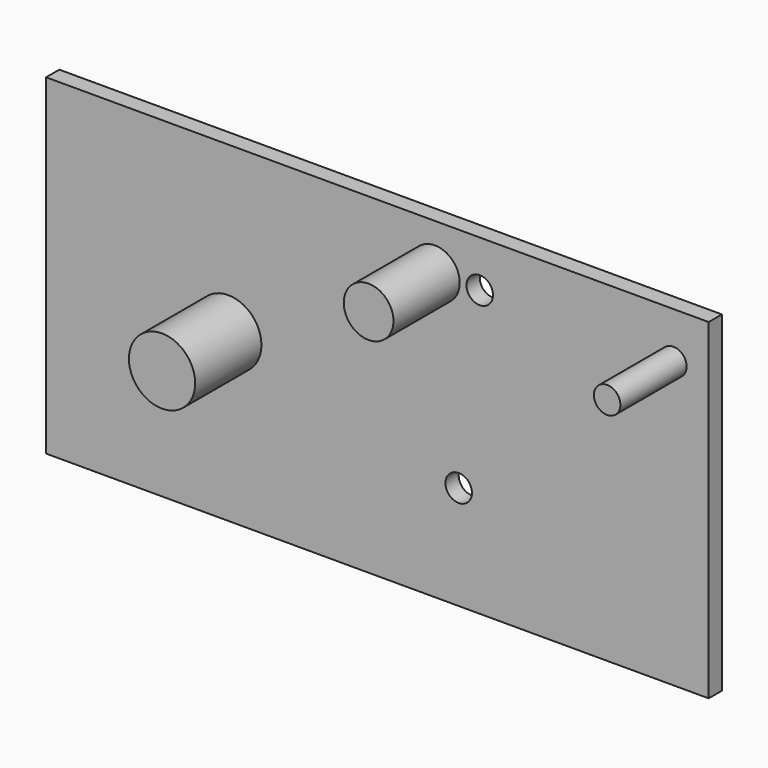
from build123d import *

# Parameters (mm, degrees)
F0_W     = 200
F0_H     = 100
F0_R     = 4
F0_R_2   = 7.5
F1_DEPTH = 5
F2_R     = 10
F2_R_2   = 7.5
F3_DEPTH = 30


with BuildPart() as f1:
    # F0 (on Front) → F1 (new body)
    with BuildSketch(Plane.XZ):
        Rectangle(F0_W, F0_H)
        with Locations((24.546659, -18.634971)):
            Circle(F0_R, mode=Mode.SUBTRACT)
        with Locations((17.353829, 36)):
            Circle(F0_R_2, mode=Mode.SUBTRACT)
        with Locations((30.894664, 36)):
            Circle(F0_R, mode=Mode.SUBTRACT)
        with Locations((89.353829, 36)):
            Circle(F0_R, mode=Mode.SUBTRACT)
    extrude(amount=F1_DEPTH)

    # F2 (on Front) → F3 (join)
    with BuildSketch(Plane.XZ):
        with Locations((-45, 0)):
            Circle(F2_R)
        with Locations((17.353829, 36)):
            Circle(F2_R_2)
        with BuildLine():
            ThreePointArc((93.353829, 36), (89.353829, 40), (85.353829, 36))
            ThreePointArc((85.353829, 36), (89.353829, 32), (93.353829, 36))
        make_face()
    extrude(amount=F3_DEPTH)


solid = f1.part
